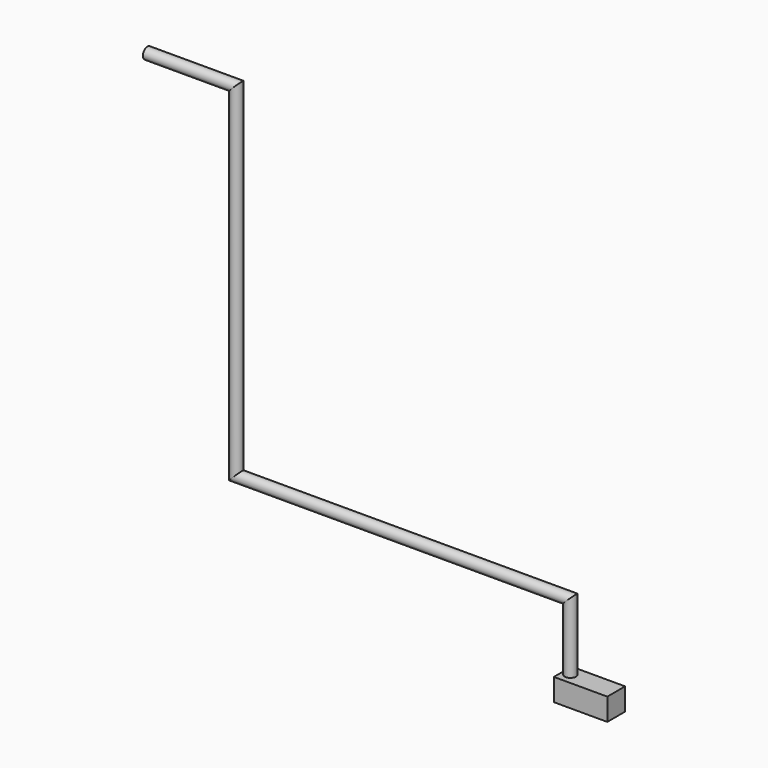
from build123d import *

# Parameters (mm, degrees)
F0_W          = 120
F0_H          = 50
F1_DEPTH      = 25
F1_DEPTH_BACK = 25
F3_R          = 12.7


with BuildPart() as f1:
    # F0 (on Front) → F1 (new body, two sides)
    with BuildSketch(Plane.XZ) as f1_sk:
        with Locations((42.842679834, -25)):
            Rectangle(F0_W, F0_H)
    extrude(amount=F1_DEPTH)
    extrude(f1_sk.sketch, amount=-F1_DEPTH_BACK)

    # F4: sweep along a path in F2
    with BuildLine(Plane.XZ) as f4_path:
        Line((0, 0), (0, 150))
        Line((0, 150), (-750, 150))
        Line((-750, 150), (-750, 920))
        Line((-750, 920), (-950, 920))
    # F3 (on Top) → F4 (sweep)
    with BuildSketch(Plane.XY):
        Circle(F3_R)
    sweep(path=f4_path.line, transition=Transition.RIGHT)


solid = f1.part
